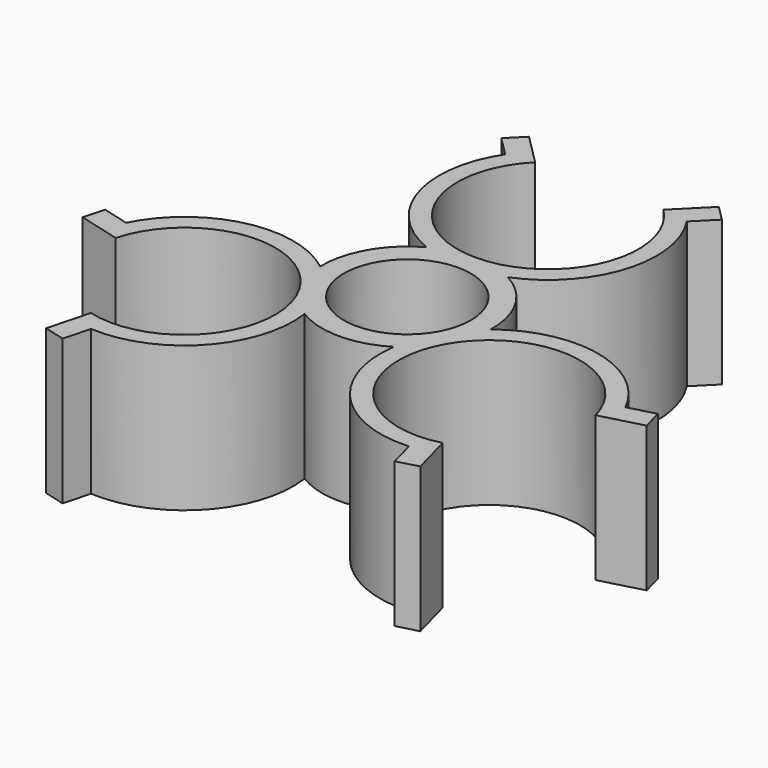
from build123d import *

# Parameters (mm, degrees)
F0_R     = 8.748711
F1_DEPTH = 20


with BuildPart() as f1:
    # F0 (on Top) → F1 (new body)
    with BuildSketch(Plane.XY):
        with BuildLine():
            ThreePointArc((8.838835, 33.087546), (0, 11.748711), (-8.838835, 33.087546))
            Line((-8.838835, 33.087546), (-13.081475, 37.330187))
            Line((-13.081475, 37.330187), (-15.202796, 35.208866))
            Line((-15.202796, 35.208866), (-12.513625, 32.519696))
            ThreePointArc((-12.513625, 32.519696), (-14.31995, 19.783396), (-5.594674, 10.33111))
            ThreePointArc((-5.594674, 10.33111), (-10.174682, 5.874356), (-11.744341, -0.320425))
            ThreePointArc((-11.744341, -0.320425), (-24.292898, 2.509742), (-34.419695, -5.422731))
            Line((-34.419695, -5.422731), (-38.093171, -4.438426))
            Line((-38.093171, -4.438426), (-38.869628, -7.336203))
            Line((-38.869628, -7.336203), (-33.074073, -8.889118))
            ThreePointArc((-33.074073, -8.889118), (-10.174682, -5.874356), (-24.235238, -24.198428))
            Line((-24.235238, -24.198428), (-25.788152, -29.993983))
            Line((-25.788152, -29.993983), (-22.890375, -30.770441))
            Line((-22.890375, -30.770441), (-21.90607, -27.096965))
            ThreePointArc((-21.90607, -27.096965), (-9.972949, -22.293138), (-6.149667, -10.010685))
            ThreePointArc((-6.149667, -10.010685), (0, -11.748711), (6.149667, -10.010685))
            ThreePointArc((6.149667, -10.010685), (9.972949, -22.293138), (21.90607, -27.096965))
            Line((21.90607, -27.096965), (22.890375, -30.770441))
            Line((22.890375, -30.770441), (25.788152, -29.993983))
            Line((25.788152, -29.993983), (24.235238, -24.198428))
            ThreePointArc((24.235238, -24.198428), (10.174682, -5.874356), (33.074073, -8.889118))
            Line((33.074073, -8.889118), (38.869628, -7.336203))
            Line((38.869628, -7.336203), (38.093171, -4.438426))
            Line((38.093171, -4.438426), (34.419695, -5.422731))
            ThreePointArc((34.419695, -5.422731), (24.292898, 2.509742), (11.744341, -0.320425))
            ThreePointArc((11.744341, -0.320425), (10.174682, 5.874356), (5.594674, 10.33111))
            ThreePointArc((5.594674, 10.33111), (14.31995, 19.783396), (12.513625, 32.519696))
            Line((12.513625, 32.519696), (15.202796, 35.208866))
            Line((15.202796, 35.208866), (13.081475, 37.330187))
            Line((13.081475, 37.330187), (8.838835, 33.087546))
        make_face()
        Circle(F0_R, mode=Mode.SUBTRACT)
    extrude(amount=F1_DEPTH)


solid = f1.part
